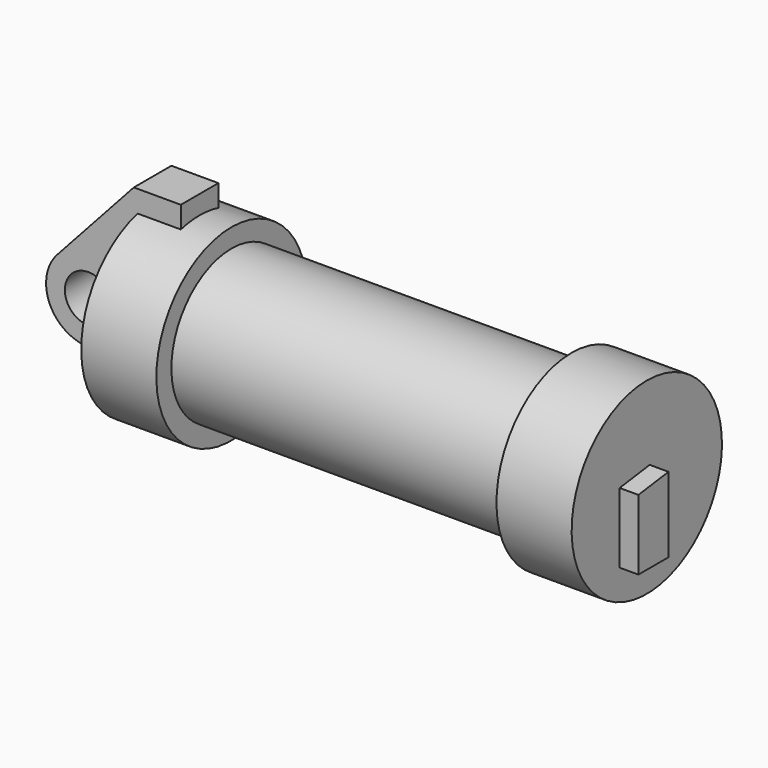
from build123d import *

# Parameters (mm, degrees)
F0_R     = 3.175
F0_W     = 5.842
F0_H     = 12.7
F1_DEPTH = 3.175
F4_DEPTH = 2.54


with BuildPart() as f1:
    # F0 (on Front) → F1 (new body, symmetric)
    with BuildSketch(Plane.XZ):
        with BuildLine():
            Line((-0.9398, 0), (0, 0))
            Line((0, 0), (0, 12.7))
            Line((0, 12.7), (5.842, 12.7))
            Line((5.842, 12.7), (5.842, 15.24))
            Line((5.842, 15.24), (-0.508, 15.24))
            Line((-0.508, 15.24), (-10.88063, 3.847543))
            ThreePointArc((-10.88063, 3.847543), (-4.591961, 5.329721), (-0.9398, 0))
        make_face()
        with BuildLine():
            ThreePointArc((-8.182663, -5.506983), (-3.195791, -4.549339), (-0.9398, 0))
            ThreePointArc((-0.9398, 0), (-4.591961, 5.329721), (-10.88063, 3.847543))
            ThreePointArc((-10.88063, 3.847543), (-12.145978, -1.583727), (-8.182663, -5.506983))
        make_face()
        with Locations((-6.6548, 0)):
            Circle(F0_R, mode=Mode.SUBTRACT)
        with BuildLine():
            Line((0, -7.777189), (0, 0))
            Line((0, 0), (-0.9398, 0))
            ThreePointArc((-0.9398, 0), (-3.195791, -4.549339), (-8.182663, -5.506983))
            Line((-8.182663, -5.506983), (0, -7.777189))
        make_face()
        Polygon((5.842, 0), (0, 0), (0, -7.777189), (5.842, -9.398), align=None)
        with Locations((2.921, 6.35)):
            Rectangle(F0_W, F0_H)
    extrude(amount=F1_DEPTH, both=True)

    # F0 (on Front) → F2 (revolve)
    with BuildSketch(Plane.XZ):
        Polygon((5.842, 12.7), (5.842, 0), (66.294, 0), (66.294, 12.7), (56.134, 12.7), (56.134, 10.16), (10.16, 10.16), (10.16, 12.7), align=None)
        with Locations((2.921, 6.35)):
            Rectangle(F0_W, F0_H)
    revolve(axis=Axis((33.147, 0, 0), (-1, 0, 0)))

    # F3 (on face) → F4 (join)
    with BuildSketch(Plane.YZ.offset(66.294)):
        Polygon((0.490244, 2.458155), (-4.588165, 1.773549), (-4.588165, -7.711818), (0.490244, -7.711818), align=None)
    extrude(amount=F4_DEPTH)


solid = f1.part
